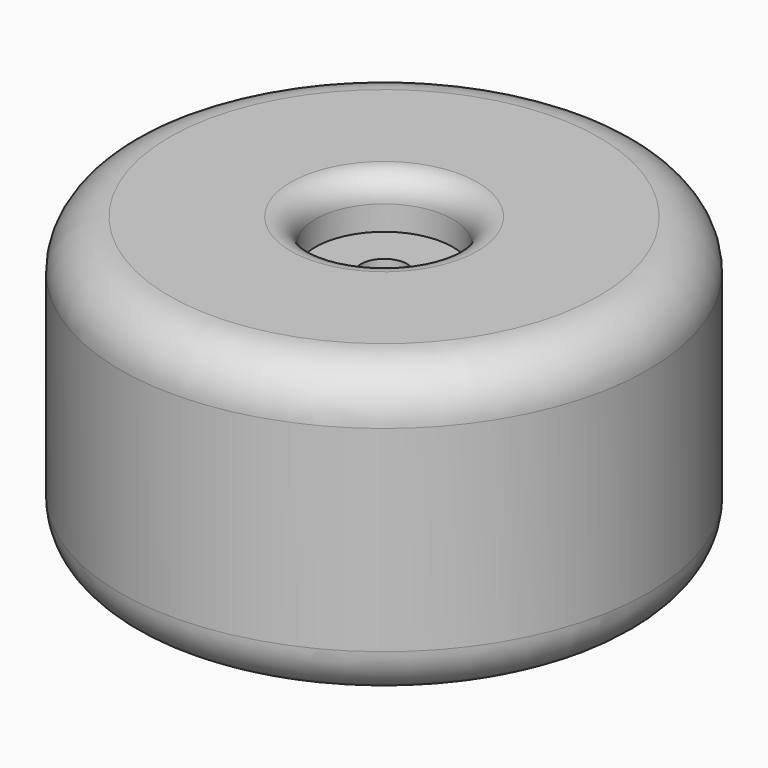
from build123d import *

# Parameters (mm, degrees)
F0_R     = 54.61
F0_R_2   = 14.224
F1_DEPTH = 60.96
F2_R     = 10.16
F3_R     = 5.08
F0_R_3   = 4.7625
F4_DEPTH = 50.8


with BuildPart() as f1:
    # F0 (on Top) → F1 (new body)
    with BuildSketch(Plane.XY):
        Circle(F0_R)
        Circle(F0_R_2, mode=Mode.SUBTRACT)
    extrude(amount=F1_DEPTH)

    # F2
    f2_edges = [f1.edges().sort_by_distance(p)[0] for p in [
        (-54.61, 0, 0),
        (-54.61, 0, 60.96),
    ]]
    fillet(f2_edges, radius=F2_R)

    # F3
    f3_edges = [f1.edges().sort_by_distance(p)[0] for p in [
        (-14.224, 0, 60.96),
        (-14.224, 0, 0),
    ]]
    fillet(f3_edges, radius=F3_R)

    # F0 (on Top) → F4 (join)
    with BuildSketch(Plane.XY):
        Circle(F0_R_2)
        Circle(F0_R_3, mode=Mode.SUBTRACT)
    extrude(amount=F4_DEPTH)


solid = f1.part
